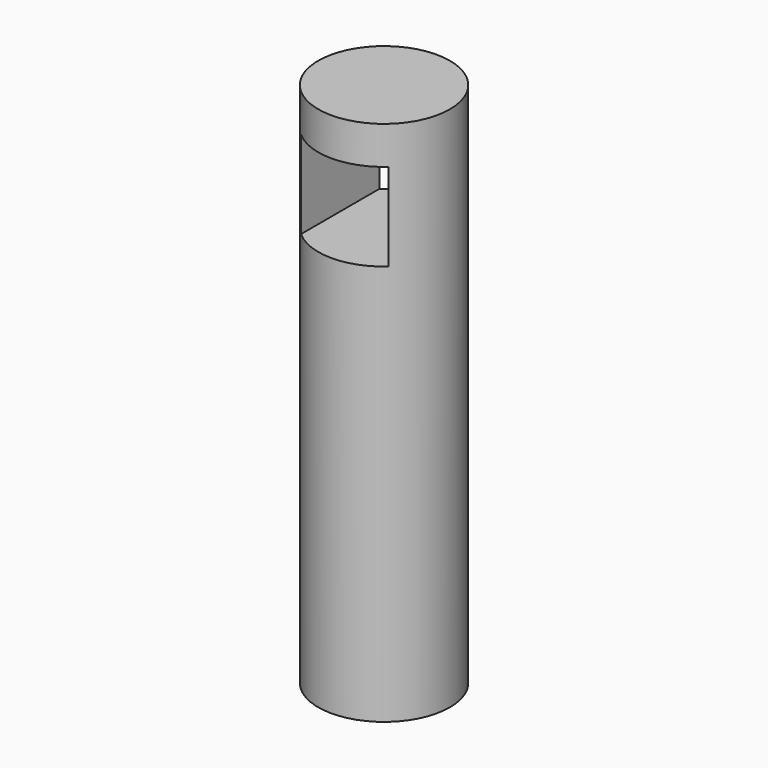
from build123d import *

# Parameters (mm, degrees)
F0_R     = 19.05
F2_DEPTH = 76.2
F1_W     = 25.4
F1_H     = 25.4
F3_DEPTH = 25.4


with BuildPart() as f2:
    # F0 (on Top) → F2 (new body, symmetric)
    with BuildSketch(Plane.XY):
        Circle(F0_R)
    extrude(amount=F2_DEPTH, both=True)

    # F1 (on Front) → F3 (cut, symmetric)
    with BuildSketch(Plane.XZ):
        with Locations((0, 52.537386)):
            Rectangle(F1_W, F1_H)
    extrude(amount=F3_DEPTH, both=True, mode=Mode.SUBTRACT)


solid = f2.part
